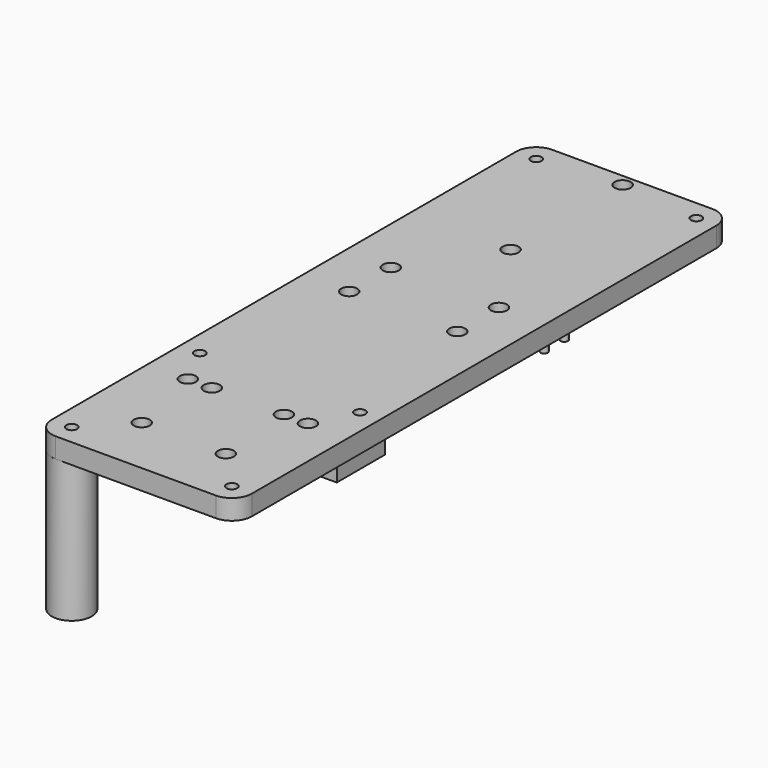
from build123d import *

# Parameters (mm, degrees)
SKETCH_R      = 2
SKETCH_R_2    = 1.35
PAD_DEPTH     = 5
SKETCH001_W   = 10
SKETCH001_H   = 15
PAD001_DEPTH  = 20
SKETCH002_R   = 0.9
PAD002_DEPTH  = 5
SKETCH003_R   = 5
SKETCH003_R_2 = 1.4
PAD003_DEPTH  = 35


with BuildPart() as body:
    # Sketch → Pad (new body)
    with BuildSketch(Plane.XY):
        with BuildLine():
            Line((-25, 72.5), (-25, -72.5))
            ThreePointArc((-25, -72.5), (-23.535534, -76.035534), (-20, -77.5))
            Line((-20, -77.5), (20, -77.5))
            ThreePointArc((20, -77.5), (23.535534, -76.035534), (25, -72.5))
            Line((25, -72.5), (25, 72.5))
            ThreePointArc((25, 72.5), (23.535534, 76.035534), (20, 77.5))
            Line((20, 77.5), (-20, 77.5))
            ThreePointArc((-20, 77.5), (-23.535534, 76.035534), (-25, 72.5))
        make_face()
        with Locations((-10.5, -62.5)):
            Circle(SKETCH_R, mode=Mode.SUBTRACT)
        with Locations((10.5, -62.5)):
            Circle(SKETCH_R, mode=Mode.SUBTRACT)
        with Locations((-13.5, 19)):
            Circle(SKETCH_R, mode=Mode.SUBTRACT)
        with Locations((-13.5, 6)):
            Circle(SKETCH_R, mode=Mode.SUBTRACT)
        with Locations((13.5, 19)):
            Circle(SKETCH_R, mode=Mode.SUBTRACT)
        with Locations((13.5, 6)):
            Circle(SKETCH_R, mode=Mode.SUBTRACT)
        with Locations((0, 74.5)):
            Circle(SKETCH_R, mode=Mode.SUBTRACT)
        with Locations((0, 39.5)):
            Circle(SKETCH_R, mode=Mode.SUBTRACT)
        with Locations((-20, -72.5)):
            Circle(SKETCH_R_2, mode=Mode.SUBTRACT)
        with Locations((20, -72.5)):
            Circle(SKETCH_R_2, mode=Mode.SUBTRACT)
        with Locations((-20, 72.5)):
            Circle(SKETCH_R_2, mode=Mode.SUBTRACT)
        with Locations((20, 72.5)):
            Circle(SKETCH_R_2, mode=Mode.SUBTRACT)
        with Locations((-15, -42.5)):
            Circle(SKETCH_R, mode=Mode.SUBTRACT)
        with Locations((15, -42.5)):
            Circle(SKETCH_R, mode=Mode.SUBTRACT)
        with Locations((-20, -32.5)):
            Circle(SKETCH_R_2, mode=Mode.SUBTRACT)
        with Locations((20, -32.5)):
            Circle(SKETCH_R_2, mode=Mode.SUBTRACT)
        with Locations((-9, -42.5)):
            Circle(SKETCH_R, mode=Mode.SUBTRACT)
        with Locations((9, -42.5)):
            Circle(SKETCH_R, mode=Mode.SUBTRACT)
    extrude(amount=PAD_DEPTH)

    # Sketch001 → Pad001 (join)
    with BuildSketch(Plane.XY):
        with Locations((0, -13.5)):
            Rectangle(SKETCH001_W, SKETCH001_H)
    extrude(amount=-PAD001_DEPTH)

    # Sketch002 → Pad002 (join)
    with BuildSketch(Plane.XY):
        with Locations((-20, 25)):
            Circle(SKETCH002_R)
        with Locations((-20, 31.3)):
            Circle(SKETCH002_R)
        with Locations((20, 25)):
            Circle(SKETCH002_R)
        with Locations((20, 31.3)):
            Circle(SKETCH002_R)
    extrude(amount=-PAD002_DEPTH)


with BuildPart() as spacer:
    # Sketch003 → Pad003 (new body)
    with BuildSketch(Plane.XY):
        with Locations((-20, -72.5)):
            Circle(SKETCH003_R)
        with Locations((-20, -72.5)):
            Circle(SKETCH003_R_2, mode=Mode.SUBTRACT)
    extrude(amount=-PAD003_DEPTH)


solid = Compound([body.part, spacer.part])
